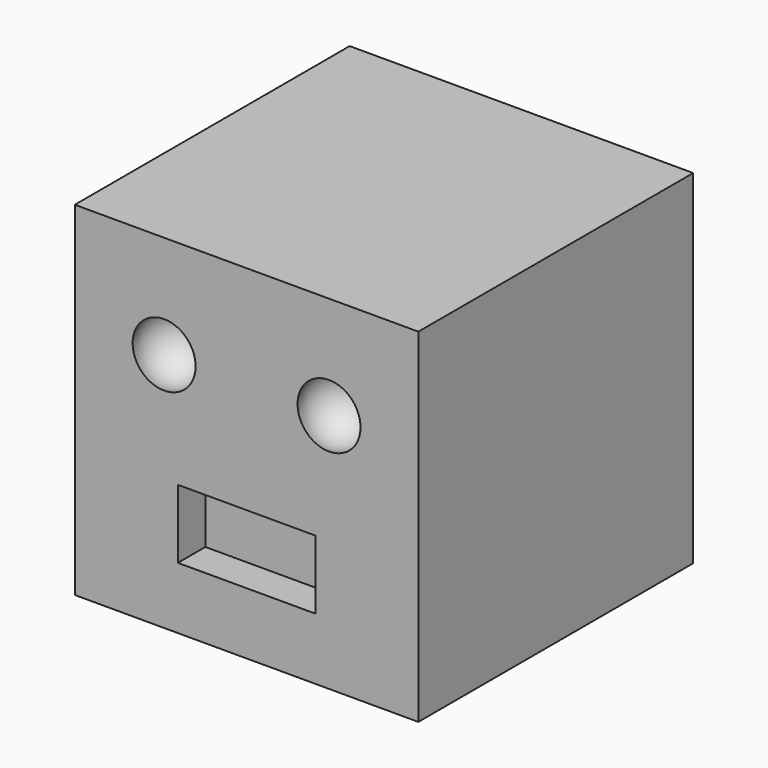
from build123d import *

# Parameters (mm, degrees)
BOX072_W     = 20
BOX072_H     = 10
BOX072_DEPTH = 10
BOX071_W     = 50
BOX071_H     = 50
BOX071_DEPTH = 50


with BuildPart() as cubo001:
    # Box072 → Box072 (new body)
    with BuildSketch(Plane(origin=(15, -5, 9), x_dir=(1, 0, 0), z_dir=(0, 0, 1))):
        with Locations((10, 5)):
            Rectangle(BOX072_W, BOX072_H)
    extrude(amount=BOX072_DEPTH)


with BuildPart() as esfera001:
    # Sphere001 → Sphere001 (revolve)
    with BuildSketch(Plane(origin=(37, 2, 35), x_dir=(1, 0, 0), z_dir=(0, -1, 0))):
        with BuildLine():
            ThreePointArc((0, -5), (5, 0), (0, 5))
            Line((0, 5), (0, -5))
        make_face()
    revolve(axis=Axis((37, 2, 35), (0, 0, 1)))


with BuildPart() as esfera:
    # Sphere → Sphere (revolve)
    with BuildSketch(Plane(origin=(13, 2, 35), x_dir=(1, 0, 0), z_dir=(0, -1, 0))):
        with BuildLine():
            ThreePointArc((0, -5), (5, 0), (0, 5))
            Line((0, 5), (0, -5))
        make_face()
    revolve(axis=Axis((13, 2, 35), (0, 0, 1)))


with BuildPart() as cut117:
    # Box071 → Box071 (new body)
    with BuildSketch(Plane.XY):
        with Locations((25, 25)):
            Rectangle(BOX071_W, BOX071_H)
    extrude(amount=BOX071_DEPTH)

    # Cut115: cut Esfera
    add(esfera.part, mode=Mode.SUBTRACT)

    # Cut116: cut Esfera001
    add(esfera001.part, mode=Mode.SUBTRACT)

    # Cut117: cut Cubo001
    add(cubo001.part, mode=Mode.SUBTRACT)


with BuildPart() as cut117_1:
    # Cut117 placement: moved
    add(cut117.part.moved(Location((0, -9, 1))))


solid = cut117_1.part
